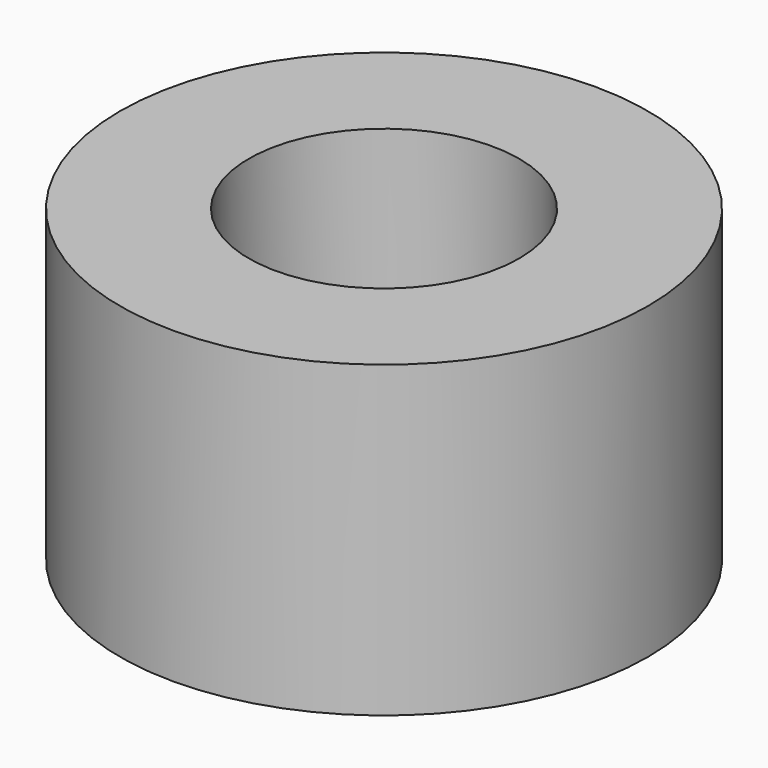
from build123d import *

# Parameters (mm, degrees)
SKETCH_R        = 31.75
PAD_DEPTH       = 37.1475
SKETCH001_R     = 16.256
POCKET_DEPTH    = 19.9771
SKETCH002_R     = 16.256
POCKET001_DEPTH = 14.8463
PAD001_DEPTH    = 10.1219
SKETCH004_R     = 1.74625
POCKET002_DEPTH = 32.4241
SKETCH005_R     = 4.7879
POCKET003_DEPTH = 2.6924
SKETCH006_R     = 2.425304
POCKET004_DEPTH = 29.7317
SKETCH007_R     = 4.7879
POCKET005_DEPTH = 3.1242


with BuildPart() as part:
    # Sketch → Pad (new body)
    with BuildSketch(Plane.XY):
        Circle(SKETCH_R)
    extrude(amount=PAD_DEPTH)

    # Sketch001 → Pocket (cut)
    with BuildSketch(Plane.XY.offset(37.1475)):
        Circle(SKETCH001_R)
    extrude(amount=-POCKET_DEPTH, mode=Mode.SUBTRACT)

    # Sketch002 → Pocket001 (cut)
    with BuildSketch(Plane(origin=(0, 0, 0), x_dir=(1, 0, 0), z_dir=(0, 0, -1))):
        Circle(SKETCH002_R)
    extrude(amount=-POCKET001_DEPTH, mode=Mode.SUBTRACT)

    # Sketch003 → Pad001 (new body)
    with BuildSketch(Plane(origin=(0, 0, 14.8463), x_dir=(1, 0, 0), z_dir=(0, 0, -1))):
        with BuildLine():
            ThreePointArc((-5.67159, -3.48615), (0, -6.65734), (5.67159, -3.48615))
            Line((5.67159, -3.48615), (7.95655, -3.48615))
            ThreePointArc((7.95655, -3.48615), (11.4427, 0), (7.95655, 3.48615))
            Line((5.67159, 3.48615), (7.95655, 3.48615))
            ThreePointArc((5.67159, 3.48615), (0, 6.65734), (-5.67159, 3.48615))
            Line((-7.95655, 3.48615), (-5.67159, 3.48615))
            ThreePointArc((-7.95655, 3.48615), (-11.4427, 0), (-7.95655, -3.48615))
            Line((-7.95655, -3.48615), (-5.67159, -3.48615))
        make_face()
    extrude(amount=PAD001_DEPTH)

    # Sketch004 → Pocket002 (cut, through all)
    with BuildSketch(Plane(origin=(0, 0, 4.7244), x_dir=(1, 0, 0), z_dir=(0, 0, -1))):
        with Locations((7.95782, 0)):
            Circle(SKETCH004_R)
        with Locations((-7.95782, 0)):
            Circle(SKETCH004_R)
    extrude(amount=-POCKET002_DEPTH, mode=Mode.SUBTRACT)

    # Sketch005 → Pocket003 (cut)
    with BuildSketch(Plane(origin=(0, 0, 4.7244), x_dir=(1, 0, 0), z_dir=(0, 0, -1))):
        Circle(SKETCH005_R)
    extrude(amount=-POCKET003_DEPTH, mode=Mode.SUBTRACT)

    # Sketch006 → Pocket004 (cut, through all)
    with BuildSketch(Plane(origin=(0, 0, 7.4168), x_dir=(1, 0, 0), z_dir=(0, 0, -1))):
        Circle(SKETCH006_R)
    extrude(amount=-POCKET004_DEPTH, mode=Mode.SUBTRACT)

    # Sketch007 → Pocket005 (cut)
    with BuildSketch(Plane.XY.offset(17.1704)):
        Circle(SKETCH007_R)
    extrude(amount=-POCKET005_DEPTH, mode=Mode.SUBTRACT)


solid = part.part
